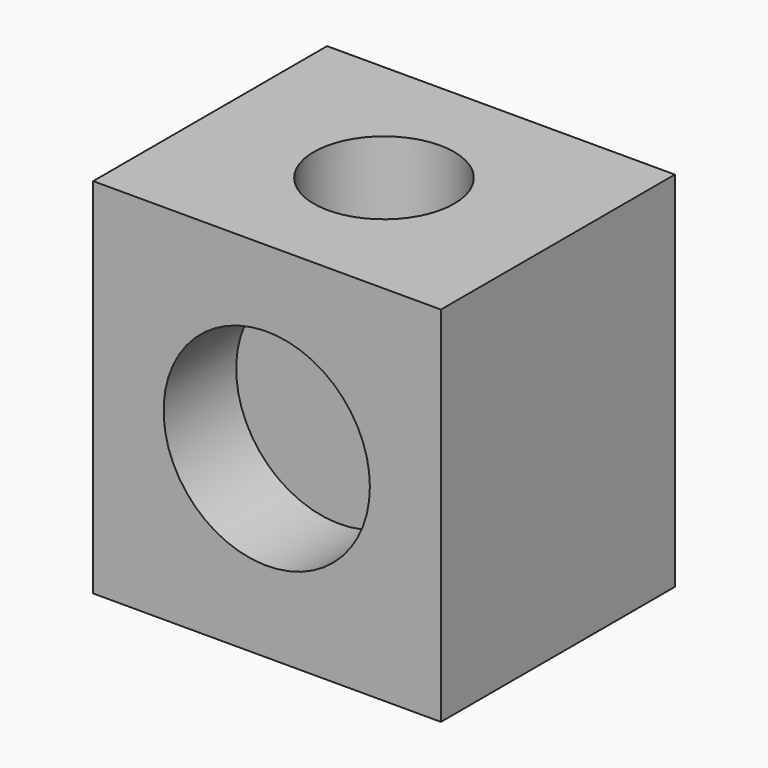
from build123d import *

# Parameters (mm, degrees)
F0_W     = 97.3299
F0_H     = 81.834436
F1_DEPTH = 101.6
F2_R     = 19.644425
F3_DEPTH = 25.4
F5_R     = 12.777111
F6_DEPTH = 25.4
F4_R     = 28.866366
F7_DEPTH = 25.4


with BuildPart() as f1:
    # F0 (on Top) → F1 (new body)
    with BuildSketch(Plane.XY):
        Rectangle(F0_W, F0_H)
        Rectangle(F0_W, F0_H)
    extrude(amount=F1_DEPTH)

    # F2 (on face) → F3 (cut)
    with BuildSketch(Plane.XY.offset(101.6)):
        Circle(F2_R)
    extrude(amount=-F3_DEPTH, mode=Mode.SUBTRACT)

    # F5 (on face) → F6 (cut)
    with BuildSketch(Plane(origin=(-48.66495, 0, 0), x_dir=(0, -1, 0), z_dir=(-1, 0, 0))):
        with Locations((0, 56.615394)):
            Circle(F5_R)
    extrude(amount=-F6_DEPTH, mode=Mode.SUBTRACT)

    # F4 (on face) → F7 (cut)
    with BuildSketch(Plane.XZ.offset(40.917218)):
        with Locations((-0.084508, 51.481884)):
            Circle(F4_R)
    extrude(amount=-F7_DEPTH, mode=Mode.SUBTRACT)


solid = f1.part
